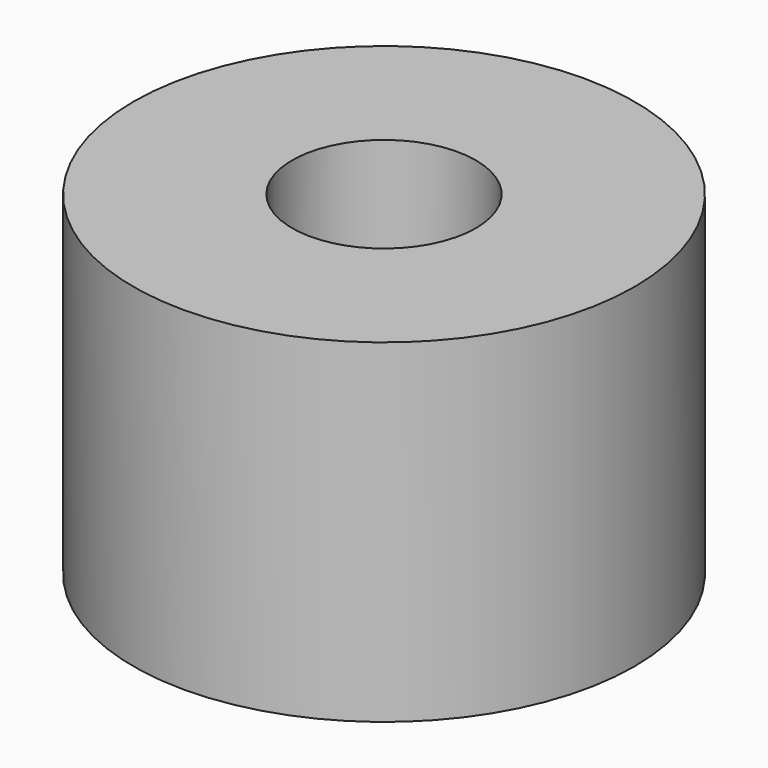
from build123d import *

# Parameters (mm, degrees)
CYLINDER1349_R     = 1
CYLINDER1349_DEPTH = 20
CYLINDER1351_R     = 1
CYLINDER1351_DEPTH = 20
CYLINDER1352_R     = 1
CYLINDER1352_DEPTH = 20
CYLINDER1345_R     = 1
CYLINDER1345_DEPTH = 20
TUBE120_R          = 7.5
TUBE120_R_2        = 2.75
TUBE120_DEPTH      = 10


with BuildPart() as obj1:
    # Cylinder1349 → Cylinder1349 (new body)
    with BuildSketch(Plane(origin=(4, -4, -88), x_dir=(0, 1, 0), z_dir=(0, 0, 1))):
        Circle(CYLINDER1349_R)
    extrude(amount=CYLINDER1349_DEPTH)


with BuildPart() as obj2:
    # Cylinder1351 → Cylinder1351 (new body)
    with BuildSketch(Plane(origin=(4, 4, -88), x_dir=(-1, 0, 0), z_dir=(0, 0, 1))):
        Circle(CYLINDER1351_R)
    extrude(amount=CYLINDER1351_DEPTH)


with BuildPart() as obj3:
    # Cylinder1352 → Cylinder1352 (new body)
    with BuildSketch(Plane(origin=(-4, 4, -88), x_dir=(0, -1, 0), z_dir=(0, 0, 1))):
        Circle(CYLINDER1352_R)
    extrude(amount=CYLINDER1352_DEPTH)


with BuildPart() as compound943:
    # Cylinder1345 → Cylinder1345 (new body)
    with BuildSketch(Plane(origin=(-4, -4, -88), x_dir=(1, 0, 0), z_dir=(0, 0, 1))):
        Circle(CYLINDER1345_R)
    extrude(amount=CYLINDER1345_DEPTH)

    # Compound943: union obj1, obj2, obj3
    add(obj1.part)
    add(obj2.part)
    add(obj3.part)


with BuildPart() as compound943_1:
    # Compound943 placement: moved
    add(compound943.part.moved(Location((0, 0, 91))))


with BuildPart() as cut484:
    # Tube120 → Tube120 (new body)
    with BuildSketch(Plane.XY.offset(19)):
        Circle(TUBE120_R)
        Circle(TUBE120_R_2, mode=Mode.SUBTRACT)
    extrude(amount=TUBE120_DEPTH)

    # Cut484: cut Compound943
    add(compound943_1.part, mode=Mode.SUBTRACT)


solid = cut484.part
